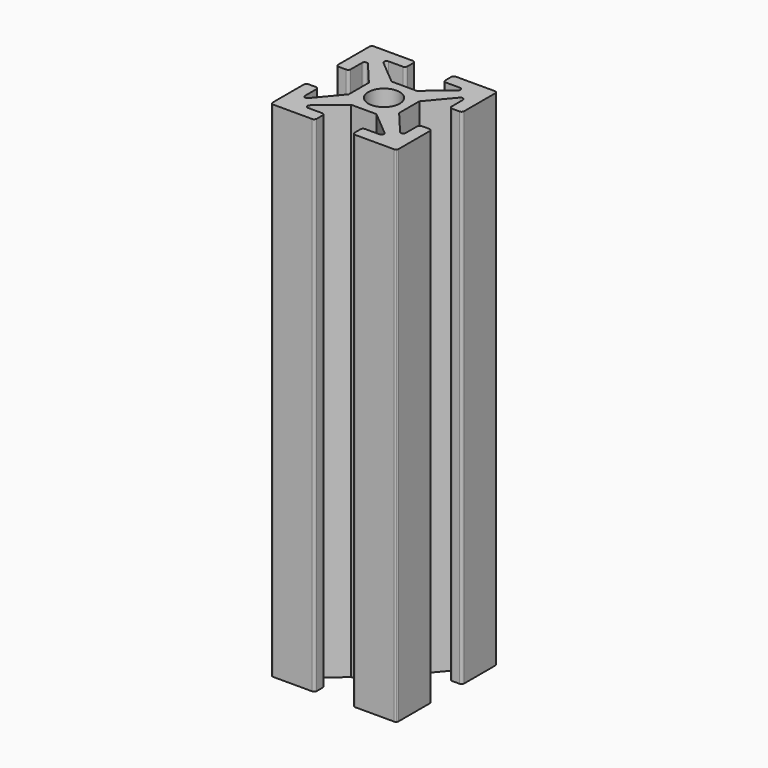
from build123d import *

# Parameters (mm, degrees)
F0_R     = 1.25
F1_DEPTH = 20


with BuildPart() as f1:
    # F0 (on Top) → F1 (new body, symmetric)
    with BuildSketch(Plane.XY):
        with BuildLine():
            Line((-2, 1), (-2, 0))
            Line((-2, 0), (-2, -1))
            Line((-2, -1), (-3.646791, -2.962569))
            ThreePointArc((-3.646791, -2.962569), (-3.868404, -3.02195), (-4, -2.834012))
            Line((-4, -2.834012), (-4, -1.7))
            ThreePointArc((-4, -1.7), (-4.058579, -1.558579), (-4.2, -1.5))
            Line((-4.2, -1.5), (-4.8, -1.5))
            ThreePointArc((-4.8, -1.5), (-4.941421, -1.558579), (-5, -1.7))
            Line((-5, -1.7), (-5, -4.8))
            ThreePointArc((-5, -4.8), (-4.984776, -4.876537), (-4.941421, -4.941421))
            ThreePointArc((-4.941421, -4.941421), (-4.876537, -4.984776), (-4.8, -5))
            Line((-4.8, -5), (-1.7, -5))
            ThreePointArc((-1.7, -5), (-1.558579, -4.941421), (-1.5, -4.8))
            Line((-1.5, -4.8), (-1.5, -4.2))
            ThreePointArc((-1.5, -4.2), (-1.558579, -4.058579), (-1.7, -4))
            Line((-1.7, -4), (-2.834012, -4))
            ThreePointArc((-2.834012, -4), (-3.02195, -3.868404), (-2.962569, -3.646791))
            Line((-2.962569, -3.646791), (-1, -2))
            Line((-1, -2), (0, -2))
            Line((0, -2), (1, -2))
            Line((1, -2), (2.962569, -3.646791))
            ThreePointArc((2.962569, -3.646791), (3.02195, -3.868404), (2.834012, -4))
            Line((2.834012, -4), (1.7, -4))
            ThreePointArc((1.7, -4), (1.558579, -4.058579), (1.5, -4.2))
            Line((1.5, -4.2), (1.5, -4.8))
            ThreePointArc((1.5, -4.8), (1.558579, -4.941421), (1.7, -5))
            Line((1.7, -5), (4.8, -5))
            ThreePointArc((4.8, -5), (4.876537, -4.984776), (4.941421, -4.941421))
            ThreePointArc((4.941421, -4.941421), (4.984776, -4.876537), (5, -4.8))
            Line((5, -4.8), (5, -1.7))
            ThreePointArc((5, -1.7), (4.941421, -1.558579), (4.8, -1.5))
            Line((4.8, -1.5), (4.2, -1.5))
            ThreePointArc((4.2, -1.5), (4.058579, -1.558579), (4, -1.7))
            Line((4, -1.7), (4, -2.834012))
            ThreePointArc((4, -2.834012), (3.868404, -3.02195), (3.646791, -2.962569))
            Line((3.646791, -2.962569), (2, -1))
            Line((2, -1), (2, 0))
            Line((2, 0), (2, 1))
            Line((2, 1), (3.646791, 2.962569))
            ThreePointArc((3.646791, 2.962569), (3.868404, 3.02195), (4, 2.834012))
            Line((4, 2.834012), (4, 1.7))
            ThreePointArc((4, 1.7), (4.058579, 1.558579), (4.2, 1.5))
            Line((4.2, 1.5), (4.8, 1.5))
            ThreePointArc((4.8, 1.5), (4.941421, 1.558579), (5, 1.7))
            Line((5, 1.7), (5, 4.8))
            ThreePointArc((5, 4.8), (4.984776, 4.876537), (4.941421, 4.941421))
            ThreePointArc((4.941421, 4.941421), (4.876537, 4.984776), (4.8, 5))
            Line((4.8, 5), (1.7, 5))
            ThreePointArc((1.7, 5), (1.558579, 4.941421), (1.5, 4.8))
            Line((1.5, 4.8), (1.5, 4.2))
            ThreePointArc((1.5, 4.2), (1.558579, 4.058579), (1.7, 4))
            Line((1.7, 4), (2.834012, 4))
            ThreePointArc((2.834012, 4), (3.02195, 3.868404), (2.962569, 3.646791))
            Line((2.962569, 3.646791), (1, 2))
            Line((1, 2), (0, 2))
            Line((0, 2), (-1, 2))
            Line((-1, 2), (-2.962569, 3.646791))
            ThreePointArc((-2.962569, 3.646791), (-3.02195, 3.868404), (-2.834012, 4))
            Line((-2.834012, 4), (-1.7, 4))
            ThreePointArc((-1.7, 4), (-1.558579, 4.058579), (-1.5, 4.2))
            Line((-1.5, 4.2), (-1.5, 4.8))
            ThreePointArc((-1.5, 4.8), (-1.558579, 4.941421), (-1.7, 5))
            Line((-1.7, 5), (-4.8, 5))
            ThreePointArc((-4.8, 5), (-4.876537, 4.984776), (-4.941421, 4.941421))
            ThreePointArc((-4.941421, 4.941421), (-4.984776, 4.876537), (-5, 4.8))
            Line((-5, 4.8), (-5, 1.7))
            ThreePointArc((-5, 1.7), (-4.941421, 1.558579), (-4.8, 1.5))
            Line((-4.8, 1.5), (-4.2, 1.5))
            ThreePointArc((-4.2, 1.5), (-4.058579, 1.558579), (-4, 1.7))
            Line((-4, 1.7), (-4, 2.834012))
            ThreePointArc((-4, 2.834012), (-3.868404, 3.02195), (-3.646791, 2.962569))
            Line((-3.646791, 2.962569), (-2, 1))
        make_face()
        Circle(F0_R, mode=Mode.SUBTRACT)
    extrude(amount=F1_DEPTH, both=True)


solid = f1.part
